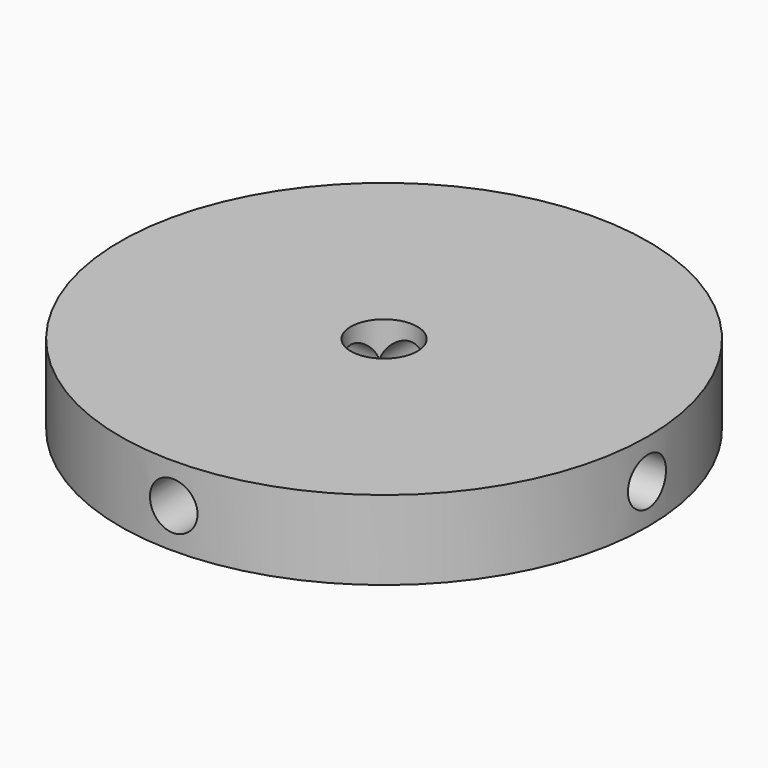
from build123d import *

# Parameters (mm, degrees)
SKETCH008_R          = 33.3
PAD004_DEPTH         = 10
SKETCH009_R          = 3
POCKET004_DEPTH      = 100
POCKET004_DEPTH_BACK = 100
SKETCH010_R          = 3
POCKET005_DEPTH      = 100
POCKET005_DEPTH_BACK = 100
SKETCH011_R          = 4.2
POCKET006_DEPTH      = 10.001


with BuildPart() as part:
    # Sketch008 → Pad004 (new body)
    with BuildSketch(Plane.XY):
        Circle(SKETCH008_R)
    extrude(amount=PAD004_DEPTH)

    # Sketch009 → Pocket004 (cut, two sides)
    with BuildSketch(Plane.YZ) as pocket004_sk:
        with Locations((0, 5)):
            Circle(SKETCH009_R)
    extrude(amount=-POCKET004_DEPTH, mode=Mode.SUBTRACT)
    extrude(pocket004_sk.sketch, amount=POCKET004_DEPTH_BACK, mode=Mode.SUBTRACT)

    # Sketch010 → Pocket005 (cut, two sides)
    with BuildSketch(Plane.XZ) as pocket005_sk:
        with Locations((0, 5)):
            Circle(SKETCH010_R)
    extrude(amount=-POCKET005_DEPTH, mode=Mode.SUBTRACT)
    extrude(pocket005_sk.sketch, amount=POCKET005_DEPTH_BACK, mode=Mode.SUBTRACT)

    # Sketch011 (on Face3 of Pocket005) → Pocket006 (cut, through all)
    with BuildSketch(Plane.XY.offset(10)):
        Circle(SKETCH011_R)
    extrude(amount=-POCKET006_DEPTH, mode=Mode.SUBTRACT)


solid = part.part
